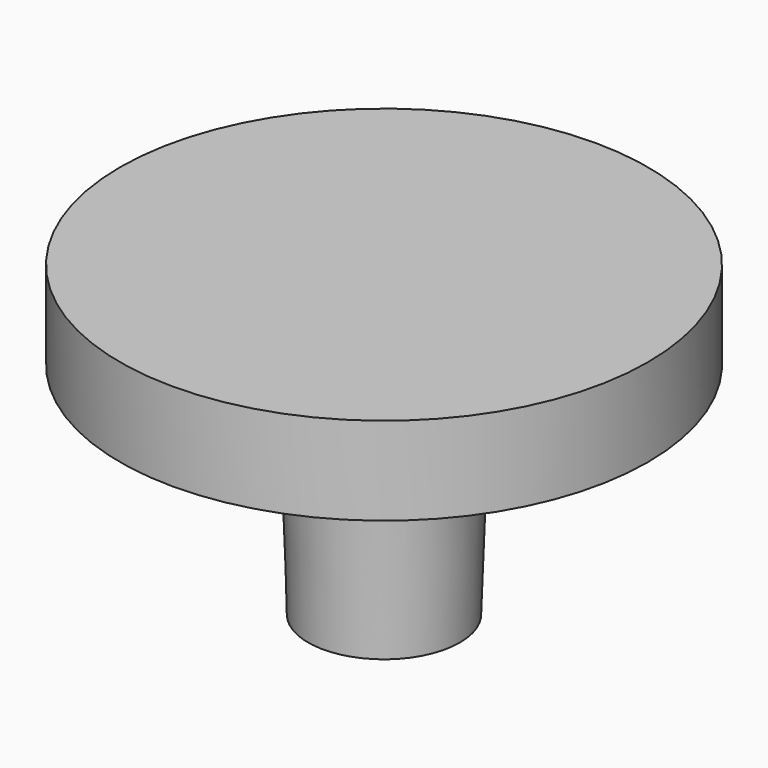
from build123d import *

# Parameters (mm, degrees)
F0_R     = 7.62
F1_DEPTH = 2.54
F2_R     = 2.413
F3_DEPTH = 6.35
F3_TAPER = 2


with BuildPart() as f1:
    # F0 (on Top) → F1 (new body)
    with BuildSketch(Plane.XY):
        Circle(F0_R)
    extrude(amount=F1_DEPTH)

    # F2 (on Top) → F3 (join)
    with BuildSketch(Plane.XY):
        Circle(F2_R)
    extrude(amount=-F3_DEPTH, taper=F3_TAPER)


solid = f1.part
